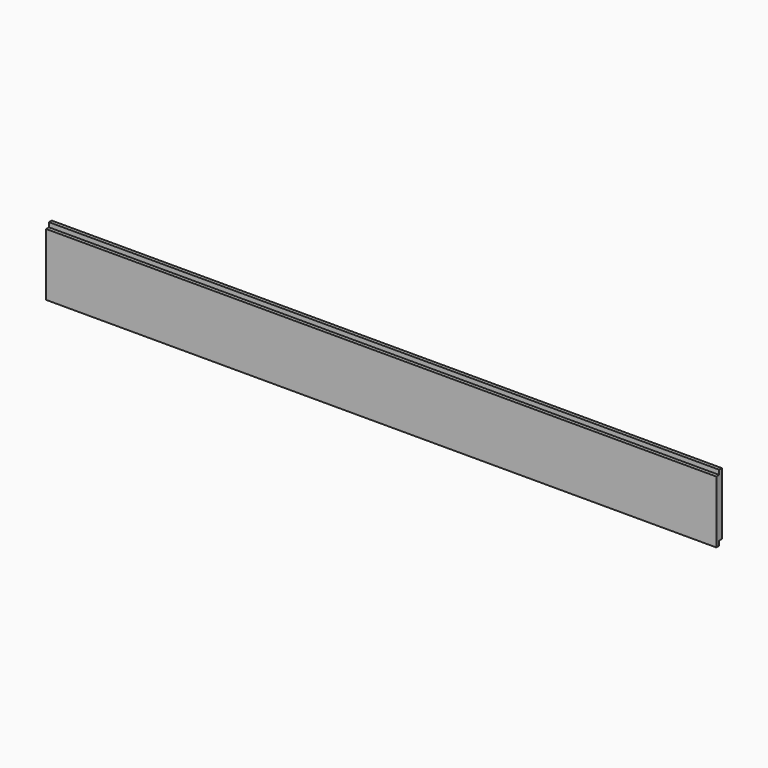
from build123d import *

# Parameters (mm, degrees)
F1_DEPTH = 15.875
F2_W     = 8.001
F2_H     = 10.414
F3_DEPTH = 1524


with BuildPart() as f1:
    # F0 (on Front) → F1 (new body)
    with BuildSketch(Plane.XZ):
        Polygon((762, -76.2), (762, 0), (762, 76.2), (-762, 76.2), (-762, -76.2), align=None)
    extrude(amount=F1_DEPTH)

    # F2 (on face) → F3 (cut, through all)
    with BuildSketch(Plane.YZ.offset(762)):
        with Locations((-4.0005, -70.993)):
            Rectangle(F2_W, F2_H)
        with Locations((-11.8745, 70.993)):
            Rectangle(F2_W, F2_H)
    extrude(amount=-F3_DEPTH, mode=Mode.SUBTRACT)


solid = f1.part
